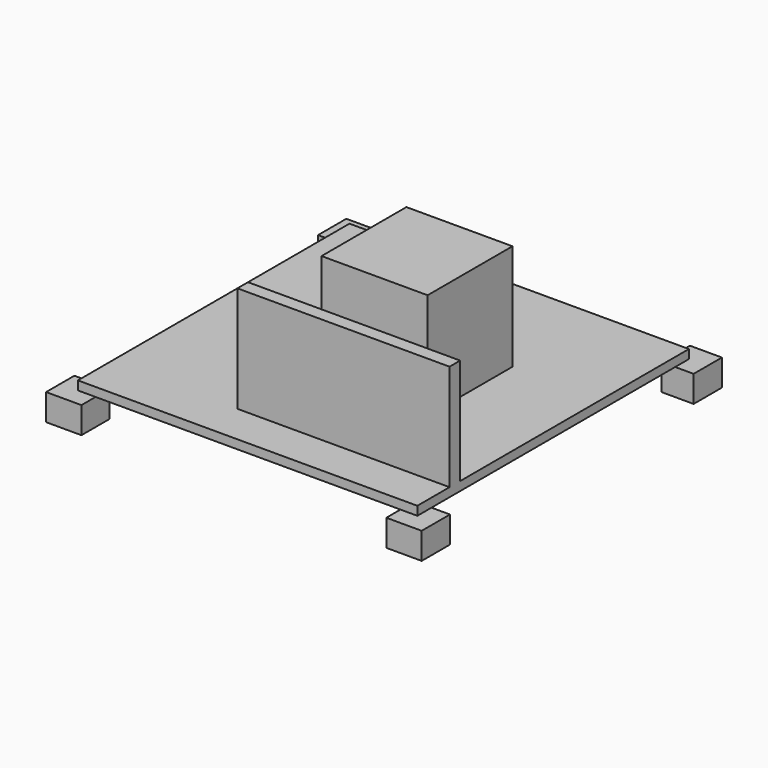
from build123d import *

# Parameters (mm, degrees)
F0_W     = 243.84
F0_H     = 243.84
F1_DEPTH = 6.35
F2_W     = 76.2
F2_H     = 76.2
F3_DEPTH = 76.2
F4_W     = 12.7000009538
F4_H     = 12.7
F4_W_2   = 12.1249086118
F4_H_2   = 12.346994652
F4_W_3   = 9.7286785974
F5_DEPTH = 19.05
F6_W     = 152.4
F6_H     = 9.525
F7_DEPTH = 76.2


with BuildPart() as f1:
    # F0 (on Top) → F1 (new body)
    with BuildSketch(Plane.XY):
        with Locations((121.92, 121.92)):
            Rectangle(F0_W, F0_H)
    extrude(amount=F1_DEPTH)

    # F2 (on face) → F3 (join)
    with BuildSketch(Plane.XY.offset(6.35)):
        with Locations((141.9095646479, 127.1040961146)):
            Rectangle(F2_W, F2_H)
    extrude(amount=F3_DEPTH)

    # F4 (on face) → F5 (join)
    with BuildSketch(Plane(origin=(0, 0, 0), x_dir=(1, 0, 0), z_dir=(0, 0, -1))):
        Polygon((12.7000009538, 12.7), (-12.7, 12.7), (-12.7, -12.7), (0, -12.7), (0, 0), (12.7000009538, 0), align=None)
        with Locations((6.3500004769, -6.35)):
            Rectangle(F4_W, F4_H)
        Polygon((231.7150913882, 12.7), (231.7150913882, 0), (243.84, 0), (243.84, -12.7), (257.115092342, -12.7), (257.115092342, 12.7), align=None)
        with Locations((237.7775456941, -6.35)):
            Rectangle(F4_W_2, F4_H)
        with Locations((6.3500004769, -237.666502674)):
            Rectangle(F4_W, F4_H_2)
        Polygon((0, -243.84), (0, -231.493005348), (-12.7, -231.493005348), (-12.7, -256.893005348), (12.7000009538, -256.893005348), (12.7000009538, -243.84), align=None)
        Polygon((257.115092342, -231.493005348), (243.84, -231.493005348), (243.84, -243.84), (234.1113214026, -243.84), (234.1113214026, -256.893005348), (257.115092342, -256.893005348), align=None)
        with Locations((238.9756607013, -237.666502674)):
            Rectangle(F4_W_3, F4_H_2)
    extrude(amount=F5_DEPTH)

    # F6 (on face) → F7 (join)
    with BuildSketch(Plane.XY.offset(6.35)):
        with Locations((167.64, 33.6779164493)):
            Rectangle(F6_W, F6_H)
    extrude(amount=F7_DEPTH)


solid = f1.part
